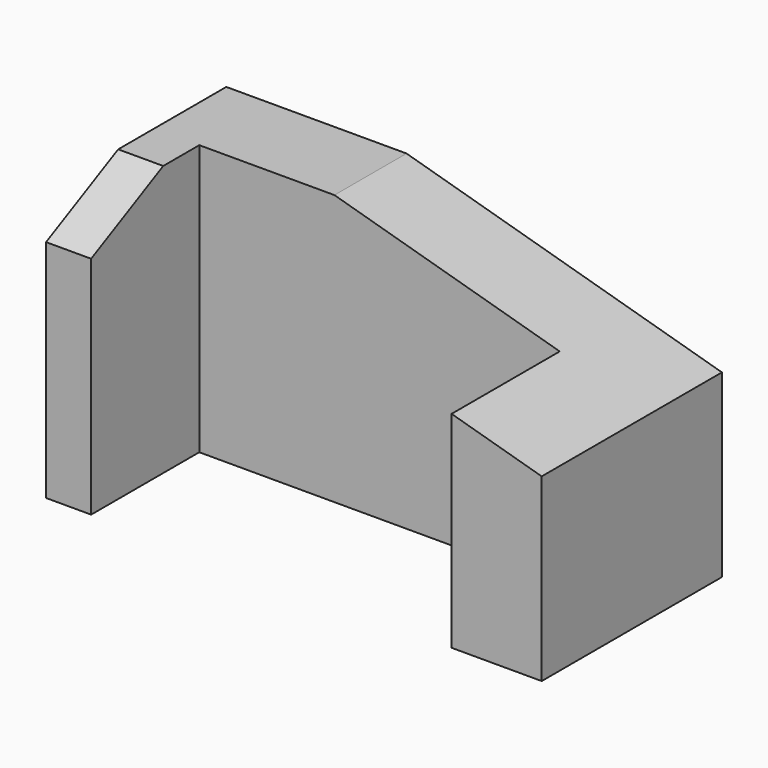
from build123d import *

# Parameters (mm, degrees)
F0_W     = 10
F0_H     = 20
F1_DEPTH = 60
F2_SIZE2 = 20
F2_SIZE  = 70
F3_SIZE2 = 20
F3_SIZE  = 10


with BuildPart() as f1:
    # F0 (on Top) → F1 (new body)
    with BuildSketch(Plane.XY):
        Polygon((40, 0), (0, 0), (0, -30), (10, -30), (10, -20), (40, -20), align=None)
        Polygon((110, 0), (40, 0), (40, -20), (90, -20), (90, -50), (110, -50), align=None)
        with Locations((5, -40)):
            Rectangle(F0_W, F0_H)
    extrude(amount=F1_DEPTH)

    # F2
    f2_edges = [f1.edges().sort_by_distance(p)[0] for p in [
        (110, -25, 60),
    ]]
    f2_side = f1.faces().sort_by_distance((58.870968, -17.258065, 60))[0]
    chamfer(f2_edges, length=F2_SIZE, length2=F2_SIZE2, reference=f2_side)

    # F3
    f3_edges = [f1.edges().sort_by_distance(p)[0] for p in [
        (5, -50, 60),
    ]]
    f3_side = f1.faces().sort_by_distance((5, -50, 30))[0]
    chamfer(f3_edges, length=F3_SIZE, length2=F3_SIZE2, reference=f3_side)


solid = f1.part
